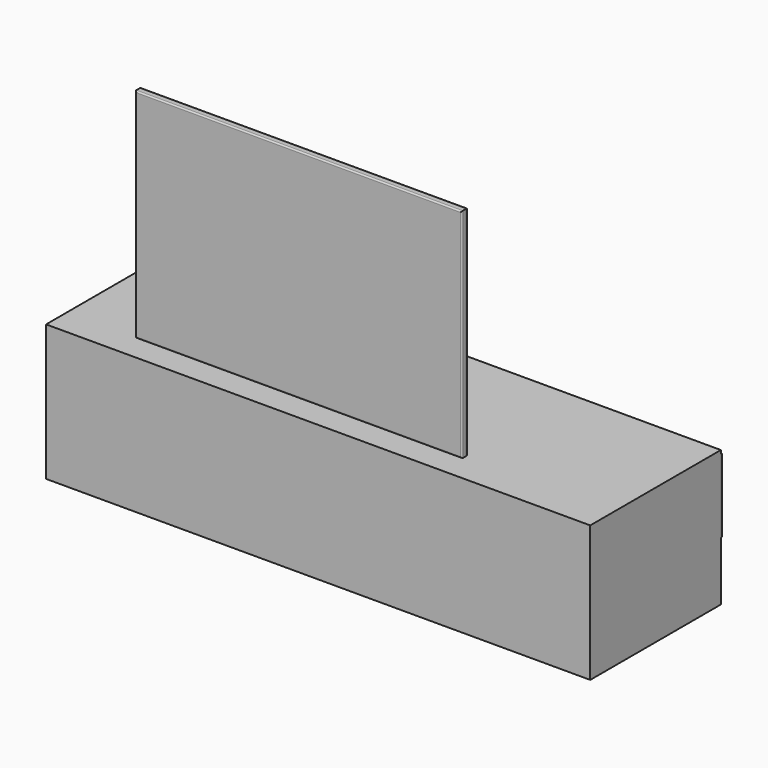
from build123d import *

# Parameters (mm, degrees)
F0_W     = 2000
F0_H     = 600
F1_DEPTH = 500
F2_W     = 1200
F2_H     = 30
F3_DEPTH = 800
F4_R     = 10
F5_R     = 5
F6_W     = 2000
F6_H     = 269.675389
F7_DEPTH = 5


with BuildPart() as f1:
    # F0 (on Top) → F1 (new body)
    with BuildSketch(Plane.XY):
        with Locations((903.133789, 255.824527)):
            Rectangle(F0_W, F0_H)
    extrude(amount=F1_DEPTH)


with BuildPart() as f3:
    # F2 (on face) → F3 (new body)
    with BuildSketch(Plane.XY.offset(500)):
        with Locations((756.042376, 64.485501)):
            Rectangle(F2_W, F2_H)
    extrude(amount=F3_DEPTH)

    # F4
    f4_edges = [f3.edges().sort_by_distance(p)[0] for p in [
        (1356.042376, 79.485501, 900),
        (156.042376, 79.485501, 900),
        (756.042376, 79.485501, 500),
        (756.042376, 79.485501, 1300),
    ]]
    fillet(f4_edges, radius=F4_R)

    # F5
    f5_edges = [f3.edges().sort_by_distance(p)[0] for p in [
        (156.042376, 49.485501, 900),
        (1356.042376, 49.485501, 900),
        (756.042376, 49.485501, 500),
        (756.042376, 49.485501, 1300),
    ]]
    fillet(f5_edges, radius=F5_R)


with BuildPart() as f7:
    # F6 (on face) → F7 (new body)
    with BuildSketch(Plane(origin=(0, 555.824527, 0), x_dir=(-1, 0, 0), z_dir=(0, 1, 0))):
        with Locations((-903.133789, 351.046405)):
            Rectangle(F6_W, F6_H)
    extrude(amount=F7_DEPTH)


solid = Compound([f1.part, f3.part, f7.part])
